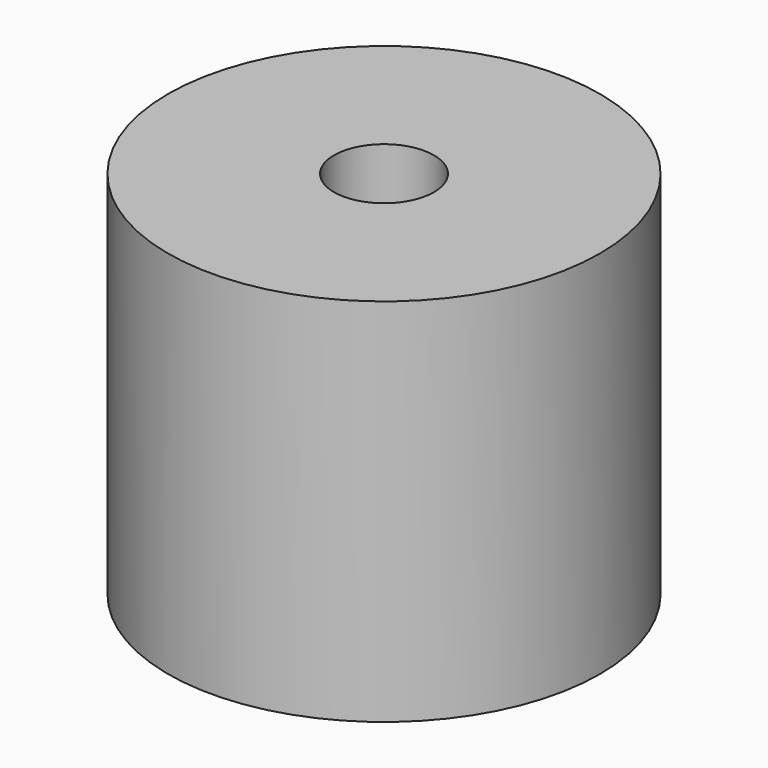
from build123d import *

# Parameters (mm, degrees)
CYLINDER159_R     = 0.405
CYLINDER159_DEPTH = 17
CYLINDER149_R     = 1.75
CYLINDER149_DEPTH = 3


with BuildPart() as obj1:
    # Cylinder159 → Cylinder159 (new body)
    with BuildSketch(Plane.XY):
        Circle(CYLINDER159_R)
    extrude(amount=CYLINDER159_DEPTH)


with BuildPart() as cut020:
    # Cylinder149 → Cylinder149 (new body)
    with BuildSketch(Plane.XY.offset(2.7)):
        Circle(CYLINDER149_R)
    extrude(amount=CYLINDER149_DEPTH)

    # Cut020: cut obj1
    add(obj1.part, mode=Mode.SUBTRACT)


with BuildPart() as cut020_1:
    # Cut020 placement: moved
    add(cut020.part.moved(Location((0, 0, 1))))


solid = cut020_1.part
